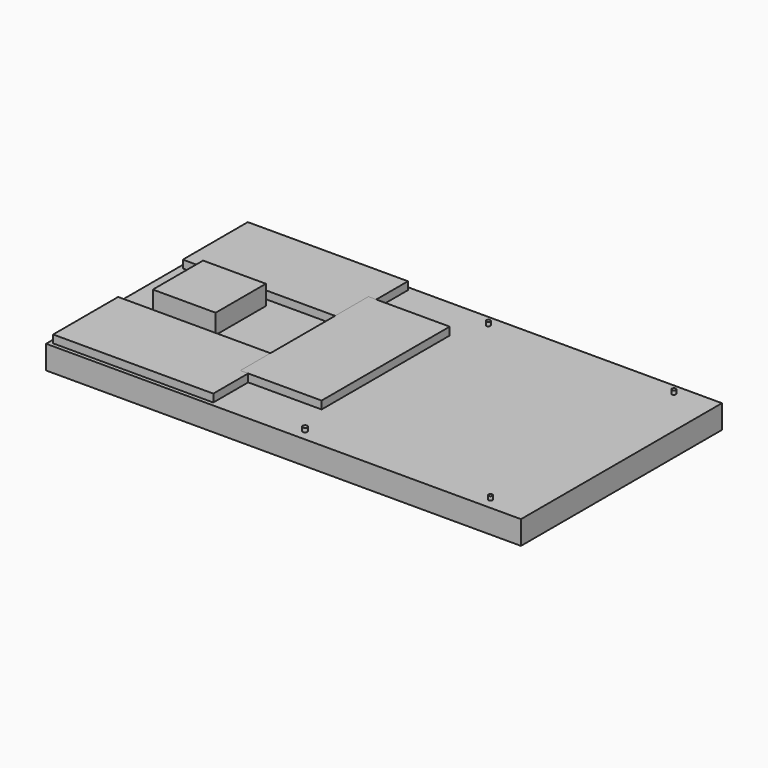
from build123d import *

# Parameters (mm, degrees)
F0_W     = 3073.4
F0_H     = 1625.6
F1_DEPTH = 152.4
F2_W     = 406.4
F2_H     = 406.4
F3_DEPTH = 127
F4_W     = 1036.32
F4_H     = 525.78
F5_DEPTH = 50.8
F6_R     = 12.7
F6_R_2   = 15.297211
F7_DEPTH = 25.4
F8_W     = 525.78
F8_H     = 1036.32
F9_DEPTH = 50.8


with BuildPart() as f1:
    # F0 (on Top) → F1 (new body)
    with BuildSketch(Plane.XY):
        Rectangle(F0_W, F0_H)
    extrude(amount=F1_DEPTH)

    # F2 (on face) → F3 (join)
    with BuildSketch(Plane.XY.offset(152.4)):
        with Locations((-1130.3, 0)):
            Rectangle(F2_W, F2_H)
    extrude(amount=F3_DEPTH)


with BuildPart() as f5:
    # F4 (on face) → F5 (new body)
    with BuildSketch(Plane.XY.offset(152.4)):
        with Locations((-993.14, -524.51)):
            Rectangle(F4_W, F4_H)
        with Locations((-993.14, 524.51)):
            Rectangle(F4_W, F4_H)
    extrude(amount=F5_DEPTH)


with BuildPart() as f7:
    # F6 (on face) → F7 (new body)
    with BuildSketch(Plane.XY.offset(152.4)):
        with Locations((-1333.5, 741.3625)):
            Circle(F6_R)
        with Locations((-1333.5, -741.3625)):
            Circle(F6_R)
        with Locations((82.55, -741.3625)):
            Circle(F6_R_2)
        with Locations((1282.7, -741.3625)):
            Circle(F6_R)
        with Locations((1282.7, 741.3625)):
            Circle(F6_R)
        with Locations((82.55, 741.3625)):
            Circle(F6_R)
    extrude(amount=F7_DEPTH)


with BuildPart() as f9:
    # F8 (on face) → F9 (new body)
    with BuildSketch(Plane.XY.offset(152.4)):
        with Locations((-262.89, 13.227703)):
            Rectangle(F8_W, F8_H)
    extrude(amount=F9_DEPTH)


solid = Compound([f1.part, f5.part, f7.part, f9.part])
